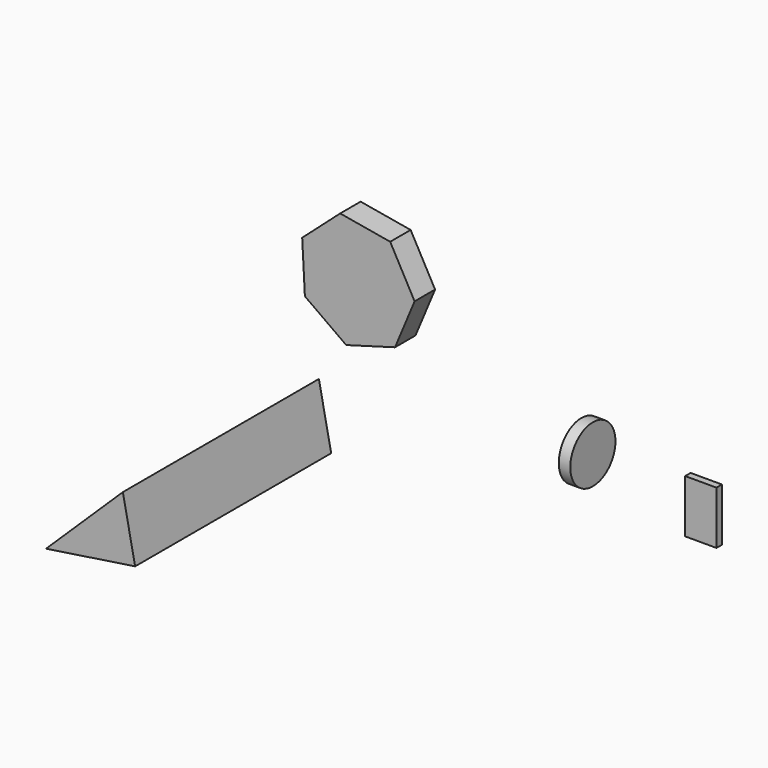
from build123d import *

# Parameters (mm, degrees)
F0_W     = 31.050824
F0_H     = 6.786614
F1_DEPTH = 52.705
F2_R     = 28.001981
F3_DEPTH = 11.43
F5_DEPTH = 243.205
F7_DEPTH = 25.4


with BuildPart() as f1:
    # F0 (on Top) → F1 (new body)
    with BuildSketch(Plane.XY):
        with Locations((-109.052617, -11.624923)):
            Rectangle(F0_W, F0_H)
    extrude(amount=F1_DEPTH)


with BuildPart() as f3:
    # F2 (on Right) → F3 (new body)
    with BuildSketch(Plane.YZ):
        with Locations((-299.535602, 231.630966)):
            Circle(F2_R)
    extrude(amount=F3_DEPTH)


with BuildPart() as f5:
    # F4 (on Front) → F5 (new body)
    with BuildSketch(Plane.XZ):
        Polygon((-500.094712, 9.35286), (-576.296337, -64.856924), (-487.915337, -51.610056), align=None)
    extrude(amount=F5_DEPTH)


with BuildPart() as f7:
    # F6 (on Front) → F7 (new body)
    with BuildSketch(Plane.XZ):
        Polygon((-452.680805, 64.687169), (-404.222391, 78.487748), (-384.798791, 124.978582), (-409.036372, 169.151125), (-458.683742, 177.74255), (-496.355417, 144.28334), (-493.683859, 93.968962), align=None)
    extrude(amount=F7_DEPTH)


solid = Compound([f1.part, f3.part, f5.part, f7.part])
